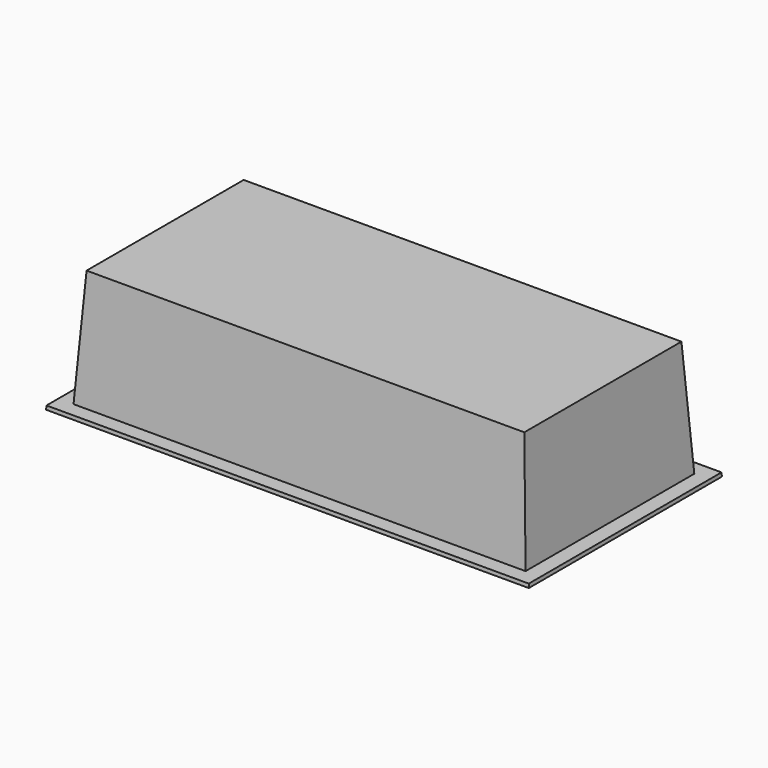
from build123d import *

# Parameters (mm, degrees)
F0_W     = 1219.2
F0_H     = 609.6
F1_DEPTH = 304.8
F1_TAPER = 3.5
F3_DEPTH = 1219.201
F5_DEPTH = 609.601


with BuildPart() as f1:
    # F0 (on Top) → F1 (new body)
    with BuildSketch(Plane.XY):
        with Locations((609.6, 304.8)):
            Rectangle(F0_W, F0_H)
    extrude(amount=F1_DEPTH, taper=F1_TAPER)

    # F2 (on Right) → F3 (cut, through all)
    with BuildSketch(Plane.YZ):
        Polygon((18.6423666219, 304.8), (0, 9.525), (38.1758597789, 9.525), (56.8182264007, 304.8), align=None)
        Polygon((570.8415662642, 9.525), (609.0174260431, 9.525), (590.9576333781, 304.8), (552.7817735993, 304.8), align=None)
    extrude(amount=F3_DEPTH, mode=Mode.SUBTRACT)

    # F4 (on Front) → F5 (cut, through all)
    with BuildSketch(Plane.XZ):
        Polygon((18.6423666219, 304.8), (0.5825739569, 9.525), (38.7537709338, 9.525), (56.8135635987, 304.8), align=None)
        Polygon((1218.6174260431, 9.525), (1200.5576333781, 304.8), (1162.3864364013, 304.8), (1180.4462290662, 9.525), align=None)
    extrude(amount=-F5_DEPTH, mode=Mode.SUBTRACT)


solid = f1.part
